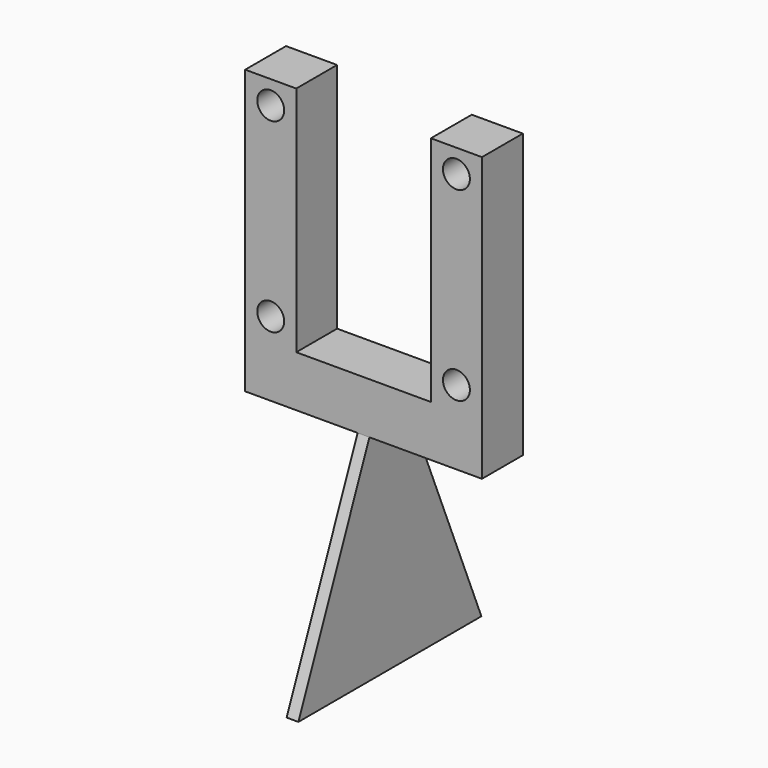
from build123d import *

# Parameters (mm, degrees)
F0_W     = 5.5
F0_H     = 25
F0_R     = 1.45
F1_DEPTH = 5.5
F3_DEPTH = 0.635


with BuildPart() as f1:
    # F0 (on Front) → F1 (new body)
    with BuildSketch(Plane.XZ):
        with Locations((-10, 12.5)):
            Rectangle(F0_W, F0_H)
        with Locations((-10, 2.5)):
            Circle(F0_R, mode=Mode.SUBTRACT)
        with Locations((-10, 22.5)):
            Circle(F0_R, mode=Mode.SUBTRACT)
        with Locations((10, 12.5)):
            Rectangle(F0_W, F0_H)
        with Locations((10, 2.5)):
            Circle(F0_R, mode=Mode.SUBTRACT)
        with Locations((10, 22.5)):
            Circle(F0_R, mode=Mode.SUBTRACT)
        Polygon((12.75, -5.5), (12.75, 0), (7.25, 0), (-7.25, 0), (-12.75, 0), (-12.75, -5.5), align=None)
    extrude(amount=F1_DEPTH)

    # F2 (on Right) → F3 (join, symmetric)
    with BuildSketch(Plane.YZ):
        Polygon((0, -5.5), (-5.5, -5.5), (-15.067086, -28.596988), (9.567086, -28.596988), align=None)
    extrude(amount=F3_DEPTH, both=True)


solid = f1.part
